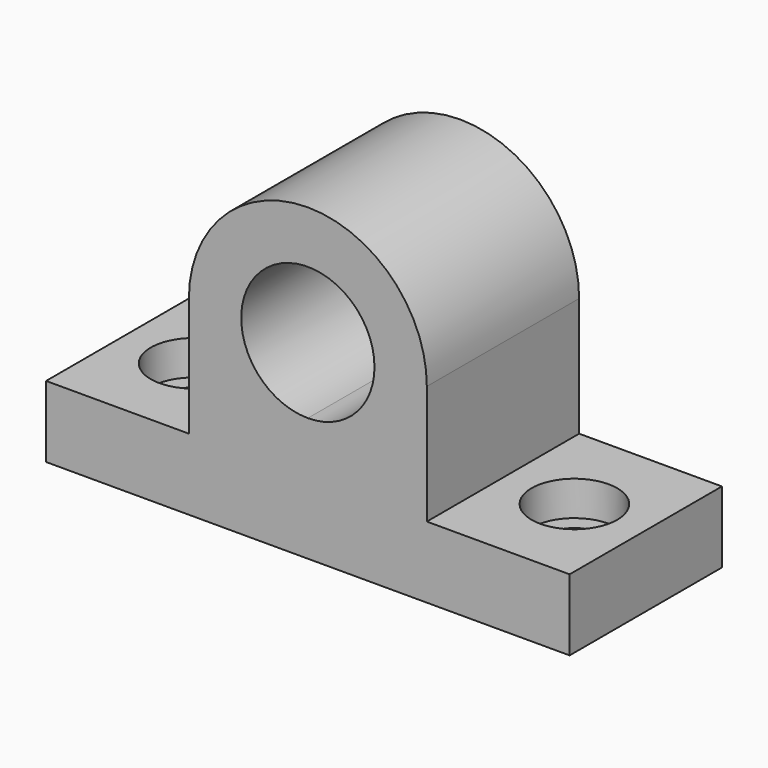
from build123d import *

# Parameters (mm, degrees)
F1_DEPTH = 40
F2_R     = 5.5
F3_DEPTH = 25
F2_R_2   = 9
F4_DEPTH = 7.3


with BuildPart() as f1:
    # F0 (on Front) → F1 (new body)
    with BuildSketch(Plane.XZ):
        with BuildLine():
            ThreePointArc((14, 40), (-9.899495, 49.899495), (0, 26))
            ThreePointArc((0, 26), (9.899495, 30.100505), (14, 40))
        make_face()
        with BuildLine():
            Line((-55, 15), (-55, 0))
            Line((-55, 0), (0, 0))
            Line((0, 0), (55, 0))
            Line((55, 0), (55, 15))
            Line((55, 15), (25, 15))
            Line((25, 15), (25, 40))
            ThreePointArc((25, 40), (0, 65), (-25, 40))
            Line((-25, 40), (-25, 15))
            Line((-25, 15), (-55, 15))
        make_face()
        with BuildLine():
            ThreePointArc((14, 40), (9.899495, 30.100505), (0, 26))
            ThreePointArc((0, 26), (-9.899495, 49.899495), (14, 40))
        make_face(mode=Mode.SUBTRACT)
    extrude(amount=F1_DEPTH)

    # F2 (on face) → F3 (cut)
    with BuildSketch(Plane.XY.offset(15)):
        with Locations((-40, -20)):
            Circle(F2_R)
        with Locations((40, -20)):
            Circle(F2_R)
    extrude(amount=-F3_DEPTH, mode=Mode.SUBTRACT)

    # F2 (on face) → F4 (cut)
    with BuildSketch(Plane.XY.offset(15)):
        with Locations((-40, -20)):
            Circle(F2_R_2)
        with Locations((-40, -20)):
            Circle(F2_R, mode=Mode.SUBTRACT)
        with Locations((40, -20)):
            Circle(F2_R_2)
        with Locations((40, -20)):
            Circle(F2_R, mode=Mode.SUBTRACT)
    extrude(amount=-F4_DEPTH, mode=Mode.SUBTRACT)


solid = f1.part
